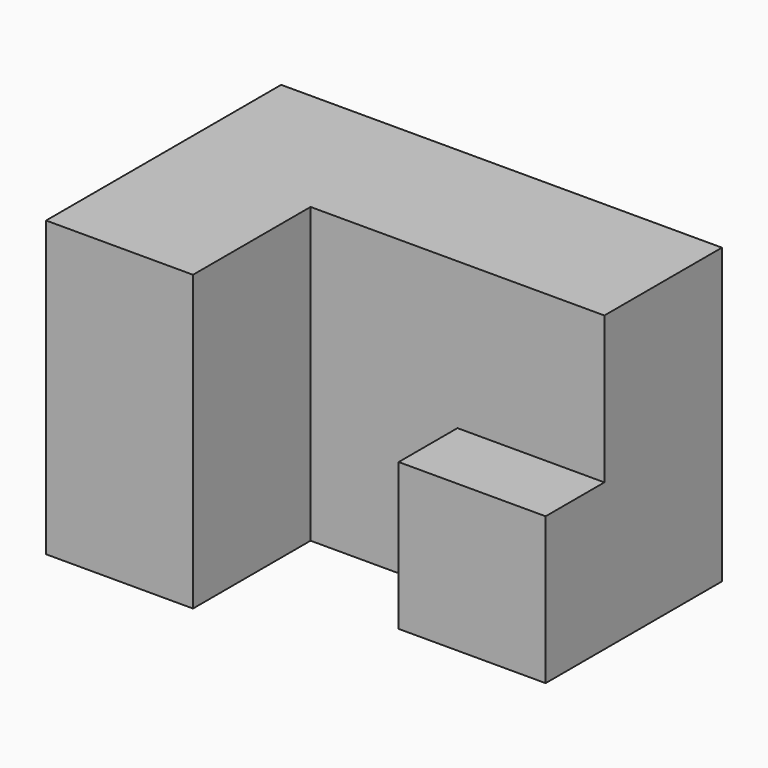
from build123d import *

# Parameters (mm, degrees)
F1_DEPTH = 25.4
F2_W     = 12.7
F2_H     = 12.7
F3_DEPTH = 6.35


with BuildPart() as f1:
    # F0 (on Top) → F1 (new body)
    with BuildSketch(Plane.XY):
        Polygon((38.1, 0), (0, 0), (0, -25.4), (12.7, -25.4), (12.7, -12.7), (38.1, -12.7), align=None)
    extrude(amount=F1_DEPTH)

    # F2 (on face) → F3 (join)
    with BuildSketch(Plane.XZ.offset(12.7)):
        with Locations((31.75, 6.35)):
            Rectangle(F2_W, F2_H)
    extrude(amount=F3_DEPTH)


solid = f1.part
